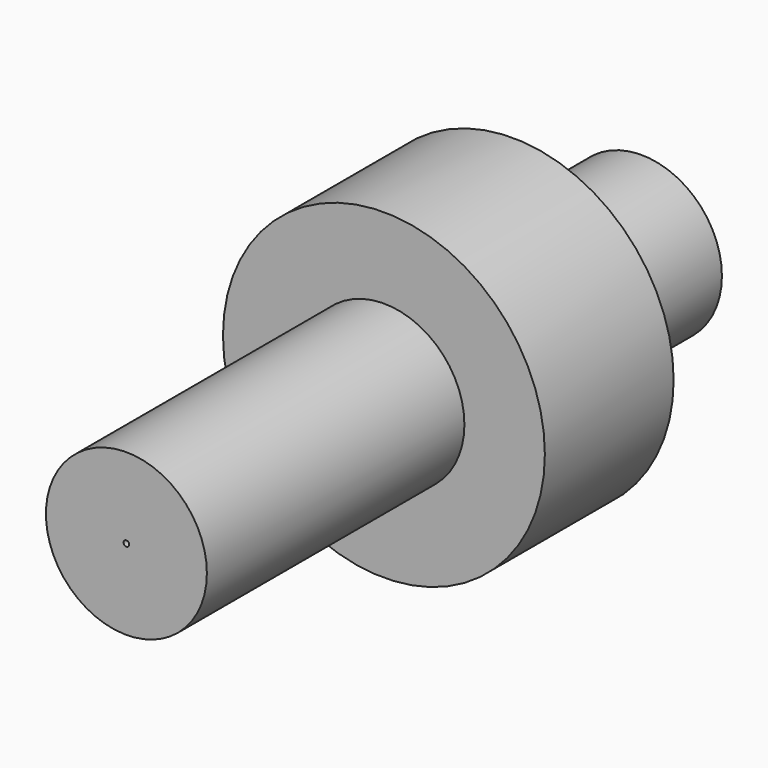
from build123d import *

# Parameters (mm, degrees)
F0_R     = 63.5
F0_R_2   = 2.244615
F1_DEPTH = 508
F3_R     = 127
F4_DEPTH = 127


with BuildPart() as f1:
    # F0 (on Front) → F1 (new body)
    with BuildSketch(Plane.XZ):
        Circle(F0_R)
        Circle(F0_R_2, mode=Mode.SUBTRACT)
    extrude(amount=F1_DEPTH)

    # F3 (on offset) → F4 (join)
    with BuildSketch(Plane.XZ.offset(127)):
        Circle(F3_R)
    extrude(amount=F4_DEPTH)


solid = f1.part
